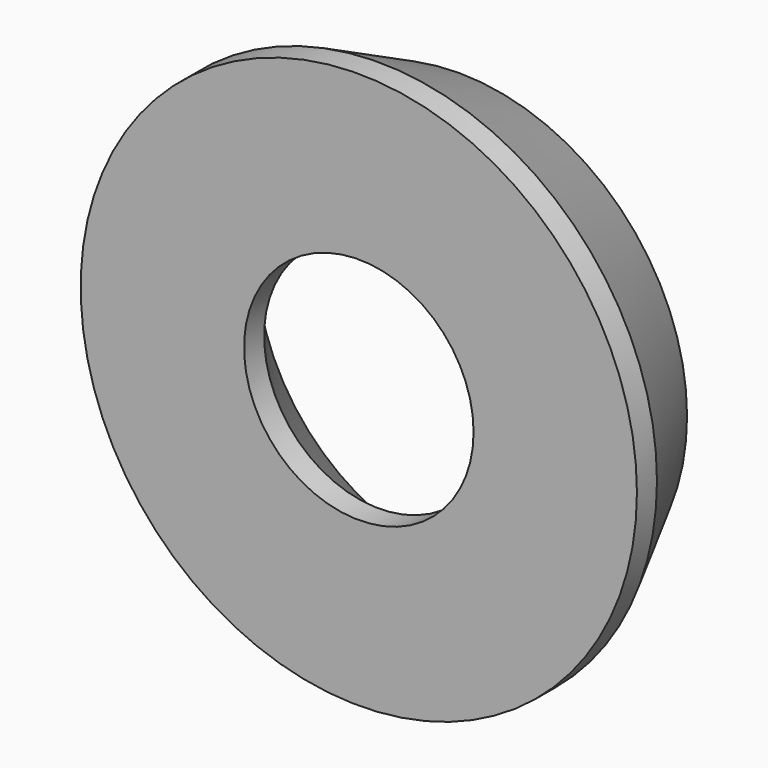
from build123d import *


with BuildPart() as part:
    # Sketch → Revolution (revolve)
    with BuildSketch(Plane.XY):
        Polygon((2.29, 0), (5.55, 0), (5.55, 0.5), (4.55, 2.5), (4.05, 2.5), (2.29, 0.5), align=None)
    revolve(axis=Axis((0, 0, 0), (0, 1, 0)))


solid = part.part
